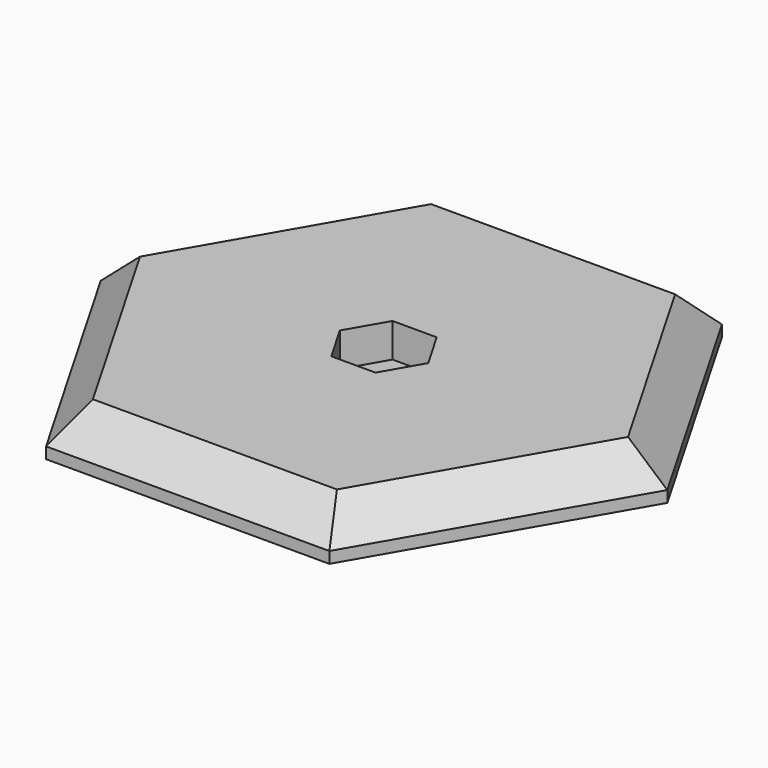
from build123d import *

# Parameters (mm, degrees)
PAD_DEPTH       = 4
POCKET_DEPTH    = 3
SKETCH002_R     = 2
POCKET001_DEPTH = 5
CHAMFER_SIZE    = 3


with BuildPart() as part:
    # Sketch → Pad (new body)
    with BuildSketch(Plane.XY):
        Polygon((12.5, 21.650635), (-12.5, 21.650635), (-25, 0), (-12.5, -21.650635), (12.5, -21.650635), (25, 0), align=None)
    extrude(amount=PAD_DEPTH)

    # Sketch001 (on Face8 of Pad) → Pocket (cut)
    with BuildSketch(Plane.XY.offset(4)):
        Polygon((1.95, 3.377499), (-1.95, 3.377499), (-3.9, 0), (-1.95, -3.377499), (1.95, -3.377499), (3.9, 0), align=None)
    extrude(amount=-POCKET_DEPTH, mode=Mode.SUBTRACT)

    # Sketch002 (on Face15 of Pocket) → Pocket001 (cut)
    with BuildSketch(Plane.XY.offset(1)):
        Circle(SKETCH002_R)
    extrude(amount=-POCKET001_DEPTH, mode=Mode.SUBTRACT)

    # Chamfer
    chamfer_edges = [part.edges().sort_by_distance(p)[0] for p in [
        (-18.75, 10.825318, 4),
        (-18.75, -10.825318, 4),
        (0, -21.650635, 4),
        (18.75, -10.825318, 4),
        (18.75, 10.825318, 4),
        (0, 21.650635, 4),
    ]]
    chamfer(chamfer_edges, length=CHAMFER_SIZE)


solid = part.part
